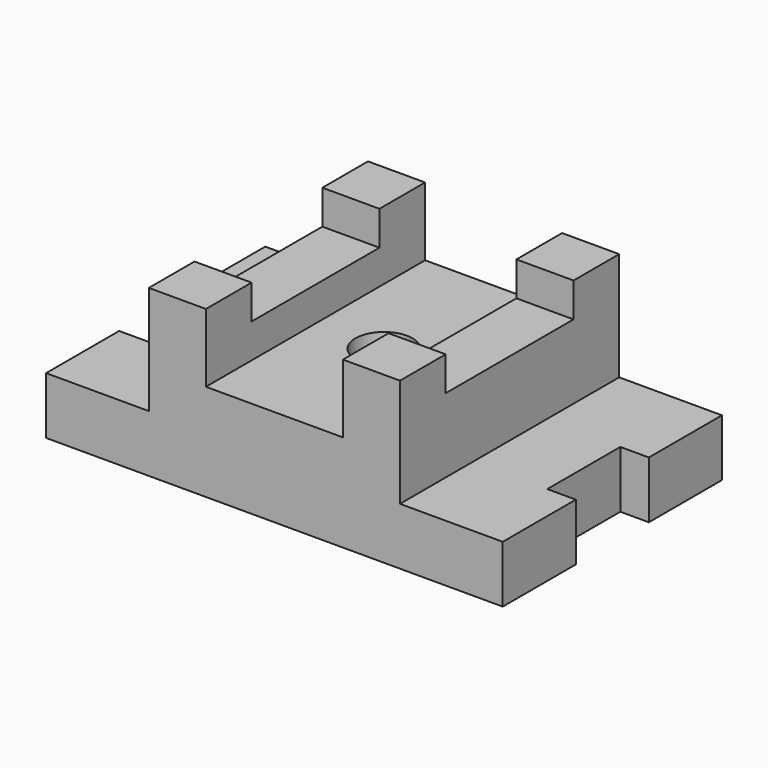
from build123d import *

# Parameters (mm, degrees)
F1_DEPTH  = 152.4
F2_W      = 15.875
F2_H      = 50.8
F3_DEPTH  = 31.751
F4_W      = 15.875
F4_H      = 50.8
F5_DEPTH  = 31.751
F6_W      = 76.2
F6_H      = 152.4
F7_DEPTH  = 19.05
F9_W      = 31.75
F9_H      = 88.9
F10_DEPTH = 19.05
F8_W      = 31.75
F8_H      = 88.9
F11_DEPTH = 19.05
F12_R     = 15.875
F13_DEPTH = 53.976


with BuildPart() as f1:
    # F0 (on Front) → F1 (new body)
    with BuildSketch(Plane.XZ):
        Polygon((-127, 0), (0, 0), (0, 31.75), (-57.15, 31.75), (-57.15, 92.075), (-88.9, 92.075), (-88.9, 73.025), (-165.1, 73.025), (-165.1, 92.075), (-196.85, 92.075), (-196.85, 31.75), (-254, 31.75), (-254, 0), align=None)
    extrude(amount=F1_DEPTH)

    # F2 (on face) → F3 (cut, through all)
    with BuildSketch(Plane.XY.offset(31.75)):
        with Locations((-7.9375, -76.2)):
            Rectangle(F2_W, F2_H)
    extrude(amount=-F3_DEPTH, mode=Mode.SUBTRACT)

    # F4 (on face) → F5 (cut, through all)
    with BuildSketch(Plane.XY.offset(31.75)):
        with Locations((-246.0625, -76.2)):
            Rectangle(F4_W, F4_H)
    extrude(amount=-F5_DEPTH, mode=Mode.SUBTRACT)

    # F6 (on face) → F7 (cut)
    with BuildSketch(Plane.XY.offset(73.025)):
        with Locations((-127, -76.2)):
            Rectangle(F6_W, F6_H)
    extrude(amount=-F7_DEPTH, mode=Mode.SUBTRACT)

    # F9 (on face) → F10 (cut)
    with BuildSketch(Plane.XY.offset(92.075)):
        with Locations((-73.025, -76.2)):
            Rectangle(F9_W, F9_H)
    extrude(amount=-F10_DEPTH, mode=Mode.SUBTRACT)

    # F8 (on face) → F11 (cut)
    with BuildSketch(Plane.XY.offset(92.075)):
        with Locations((-180.975, -76.2)):
            Rectangle(F8_W, F8_H)
    extrude(amount=-F11_DEPTH, mode=Mode.SUBTRACT)

    # F12 (on face) → F13 (cut, through all)
    with BuildSketch(Plane.XY.offset(53.975)):
        with Locations((-127, -76.2)):
            Circle(F12_R)
    extrude(amount=-F13_DEPTH, mode=Mode.SUBTRACT)


solid = f1.part
